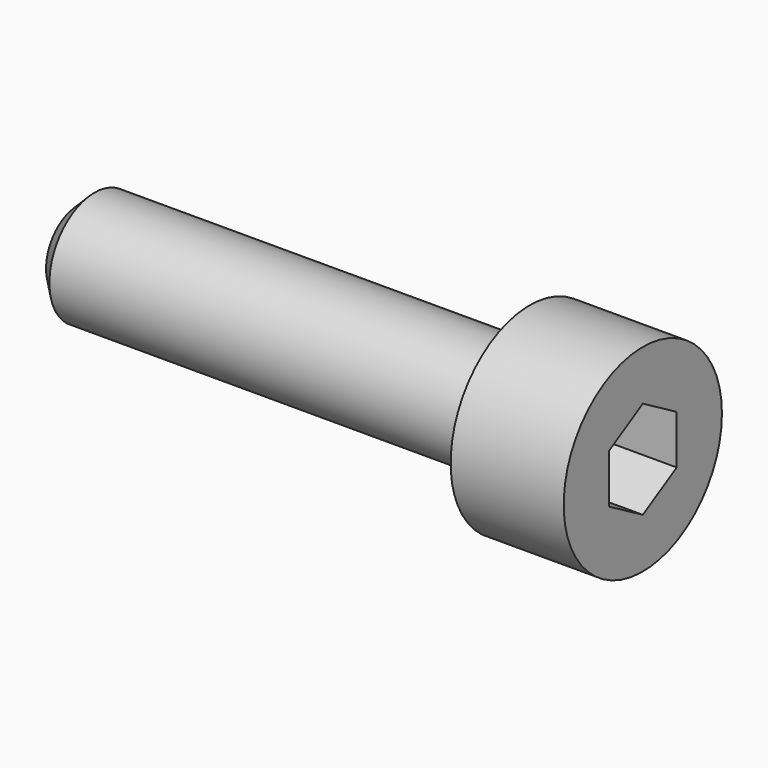
from build123d import *

# Parameters (mm, degrees)
F0_R     = 2
F1_DEPTH = 16
F2_R     = 3.5
F3_DEPTH = 4
F5_DEPTH = 3
F6_SIZE  = 0.6


with BuildPart() as f1:
    # F0 (on Right) → F1 (new body)
    with BuildSketch(Plane.YZ):
        Circle(F0_R)
    extrude(amount=-F1_DEPTH)

    # F2 (on face) → F3 (join)
    with BuildSketch(Plane.YZ):
        Circle(F2_R)
    extrude(amount=F3_DEPTH)

    # F4 (on face) → F5 (cut)
    with BuildSketch(Plane.YZ.offset(4)):
        Polygon((1.5, 0.866025), (0, 1.732051), (-1.5, 0.866025), (-1.5, -0.866025), (0, -1.732051), (1.5, -0.866025), align=None)
    extrude(amount=-F5_DEPTH, mode=Mode.SUBTRACT)

    # F6
    f6_edges = [f1.edges().sort_by_distance(p)[0] for p in [
        (-16, -2, 0),
    ]]
    chamfer(f6_edges, length=F6_SIZE)


solid = f1.part
